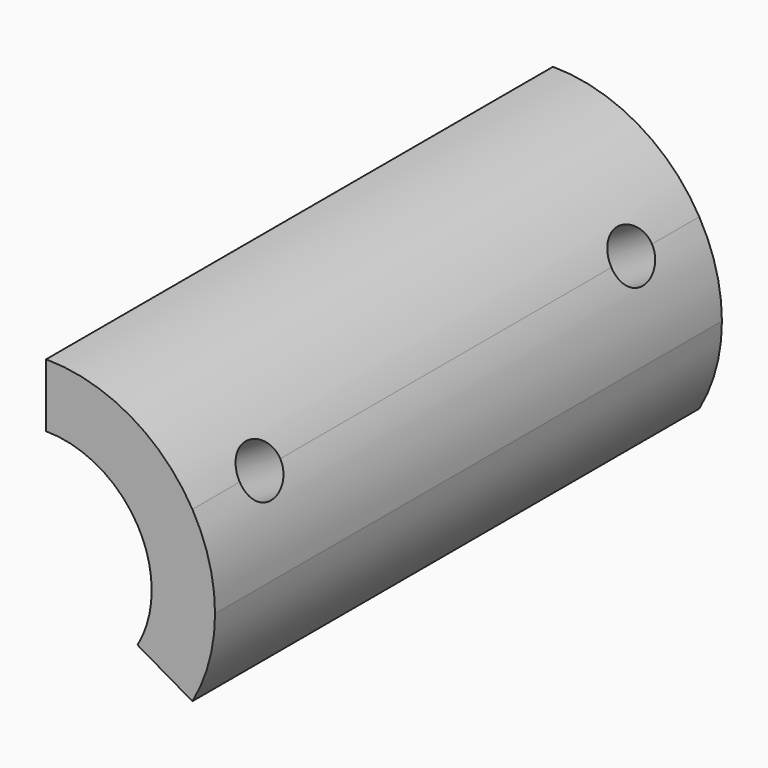
from build123d import *

# Parameters (mm, degrees)
F1_DEPTH = 75
F5_D     = 12


with BuildPart() as f1:
    # F0 (on Front) → F1 (new body, symmetric)
    with BuildSketch(Plane.XZ):
        with BuildLine():
            Line((21.6506350946, 12.5), (34.6410161514, 20))
            ThreePointArc((34.6410161514, 20), (20, 34.6410161514), (0, 40))
            Line((0, 40), (0, 25))
            ThreePointArc((0, 25), (12.5, 21.6506350946), (21.6506350946, 12.5))
        make_face()
        with BuildLine():
            ThreePointArc((34.6410161514, -20), (38.6370330516, -10.3527618041), (40, 0))
            ThreePointArc((40, 0), (38.6370330516, 10.3527618041), (34.6410161514, 20))
            Line((34.6410161514, 20), (21.6506350946, 12.5))
            ThreePointArc((21.6506350946, 12.5), (24.1481456572, 6.4704761276), (25, 0))
            ThreePointArc((25, 0), (24.1481456572, -6.4704761276), (21.6506350946, -12.5))
            Line((21.6506350946, -12.5), (34.6410161514, -20))
        make_face()
    extrude(amount=F1_DEPTH, both=True)

    # F5 (through all)
    with Locations(Plane(origin=(34.6410161514, 0, 20), x_dir=(0, -1, 0), z_dir=(0.8660254038, 0, 0.5))):
        with Locations((55, 0), (-55, 0)):
            Hole(F5_D / 2)


solid = f1.part
